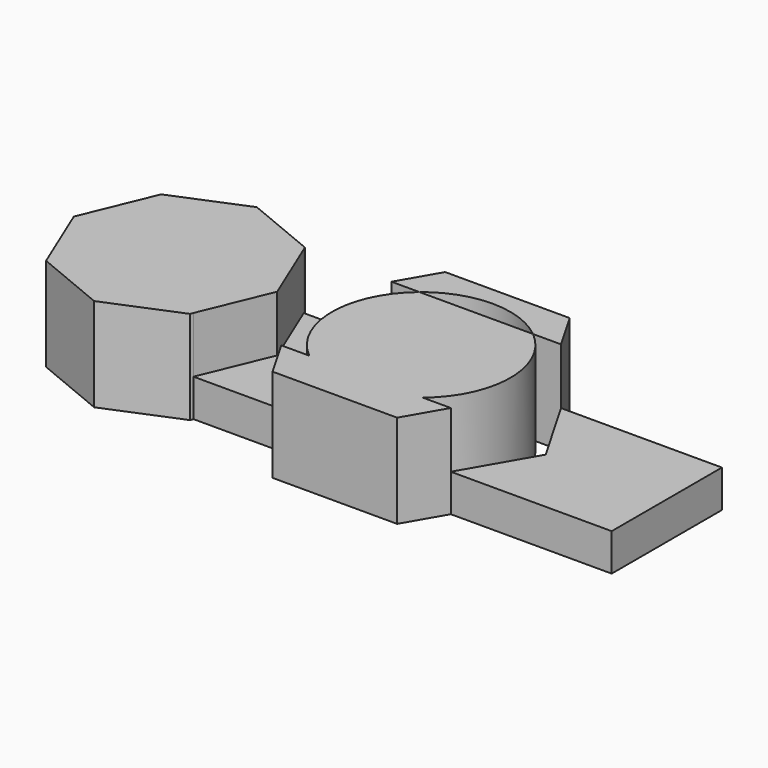
from build123d import *

# Parameters (mm, degrees)
F1_DEPTH = 10.16
F2_DEPTH = 25.4


with BuildPart() as f1:
    # F0 (on Top) → F1 (new body)
    with BuildSketch(Plane.XY):
        Polygon((-46.8524309846, -18.7120158225), (-23.0223919256, -18.7120158225), (-33.8257792978, 0), (-39.1016602516, 0), align=None)
        Polygon((-33.8257792978, 0), (-23.0223919256, 18.7120158225), (-46.8524309846, 18.7120158225), (-39.1016602516, 0), align=None)
    extrude(amount=F1_DEPTH)



with BuildPart() as f1b:
    # F0 (on Top) → F1, piece 2 (new body)
    with BuildSketch(Plane.XY):
        Polygon((66.7180120945, 18.7120158225), (23.0223919256, 18.7120158225), (33.8257792978, 0), (23.0223919256, -18.7120158225), (66.7180120945, -18.7120158225), align=None)
    extrude(amount=F1_DEPTH)


with BuildPart() as f1_1:
    add(f1.part)

    add(f1b.part)  # F2 merges F1b
    # F0 (on Top) → F2 (join)
    with BuildSketch(Plane.XY):
        Polygon((-47.1903024348, -19.5277096597), (-46.8524309846, -18.7120158225), (-39.1016602516, 0), (-94.0762732549, 0), (-94.3343639374, 0), (-86.2457217542, -19.5277096597), (-66.7180120945, -27.6163518429), align=None)
        Polygon((-39.1016602516, 0), (-46.8524309846, 18.7120158225), (-47.1903024348, 19.5277096597), (-66.7180120945, 27.6163518429), (-86.2457217542, 19.5277096597), (-94.3343639374, 0), (-94.0762732549, 0), align=None)
        with BuildLine():
            ThreePointArc((15.4173678053, -18.7120158225), (21.9275344664, -10.3449503823), (24.2453040028, 0))
            ThreePointArc((24.2453040028, 0), (21.9275344664, 10.3449503823), (15.4173678053, 18.7120158225))
            Line((15.4173678053, 18.7120158225), (-15.4173678053, 18.7120158225))
            ThreePointArc((-15.4173678053, 18.7120158225), (-21.9275344664, 10.3449503823), (-24.2453040028, 0))
            ThreePointArc((-24.2453040028, 0), (-21.9275344664, -10.3449503823), (-15.4173678053, -18.7120158225))
            Line((-15.4173678053, -18.7120158225), (15.4173678053, -18.7120158225))
        make_face()
        with BuildLine():
            ThreePointArc((-15.4173678053, -18.7120158225), (0, -24.2453040028), (15.4173678053, -18.7120158225))
            Line((15.4173678053, -18.7120158225), (-15.4173678053, -18.7120158225))
        make_face()
        with BuildLine():
            Line((23.0223919256, -18.7120158225), (15.4173678053, -18.7120158225))
            ThreePointArc((15.4173678053, -18.7120158225), (0, -24.2453040028), (-15.4173678053, -18.7120158225))
            Line((-15.4173678053, -18.7120158225), (-23.0223919256, -18.7120158225))
            Line((-23.0223919256, -18.7120158225), (-16.9128896489, -29.2939841747))
            Line((-16.9128896489, -29.2939841747), (16.9128896489, -29.2939841747))
            Line((16.9128896489, -29.2939841747), (23.0223919256, -18.7120158225))
        make_face()
        with BuildLine():
            ThreePointArc((-15.4173678053, 18.7120158225), (0, 24.2453040028), (15.4173678053, 18.7120158225))
            Line((15.4173678053, 18.7120158225), (23.0223919256, 18.7120158225))
            Line((23.0223919256, 18.7120158225), (16.9128896489, 29.2939841747))
            Line((16.9128896489, 29.2939841747), (-16.9128896489, 29.2939841747))
            Line((-16.9128896489, 29.2939841747), (-23.0223919256, 18.7120158225))
            Line((-23.0223919256, 18.7120158225), (-15.4173678053, 18.7120158225))
        make_face()
    extrude(amount=F2_DEPTH)


solid = f1_1.part
